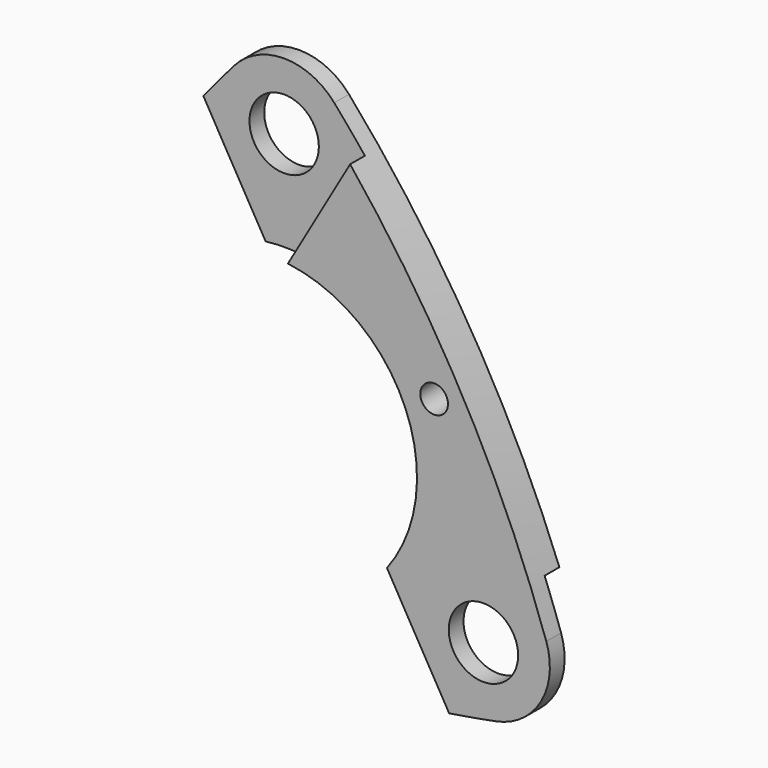
from build123d import *

# Parameters (mm, degrees)
F0_R     = 5.969
F1_DEPTH = 6.35
F3_DEPTH = 3.175
F4_R     = 5.969
F5_DEPTH = 3.175
F6_R     = 2.38125
F7_DEPTH = 25.4


with BuildPart() as f1:
    # F0 (on Front) → F1 (new body)
    with BuildSketch(Plane.XZ):
        with BuildLine():
            ThreePointArc((-3.193241, 25.198476), (21.997045, 12.7), (20.2259, -15.364666))
            Line((20.2259, -15.364666), (30.925328, -33.896619))
            ThreePointArc((30.925328, -33.896619), (34.982408, -33.229802), (39.025166, -32.481036))
            ThreePointArc((39.025166, -32.481036), (46.72867, -26.97881), (47.641985, -17.556267))
            ThreePointArc((47.641985, -17.556267), (31.40528, 18.131847), (8.616819, 50.037303))
            ThreePointArc((8.616819, 50.037303), (0, 53.957621), (-8.616819, 50.037303))
            ThreePointArc((-8.616819, 50.037303), (-11.286649, 46.910555), (-13.892669, 43.73043))
            Line((-13.892669, 43.73043), (-3.193241, 25.198476))
        make_face()
        with Locations((36.83, -21.26381)):
            Circle(F0_R, mode=Mode.SUBTRACT)
        with Locations((0, 42.527621)):
            Circle(F0_R, mode=Mode.SUBTRACT)
    extrude(amount=F1_DEPTH)

    # F2 (on face) → F3 (cut)
    with BuildSketch(Plane.XZ.offset(6.35)):
        Polygon((-39.208766, 26.267834), (-6.944216, 7.639887), (20.571818, 55.299056), (-11.692732, 73.927002), align=None)
    extrude(amount=-F3_DEPTH, mode=Mode.SUBTRACT)

    # F4 (on face) → F5 (cut)
    with BuildSketch(Plane.XZ):
        with Locations((36.83, -21.26381)):
            Circle(F4_R)
        with BuildLine():
            Line((65.582015, -59.232034), (65.582015, -9.83381))
            Line((65.582015, -9.83381), (44.817998, -9.83381))
            ThreePointArc((44.817998, -9.83381), (46.269057, -13.680753), (47.641985, -17.556267))
            ThreePointArc((47.641985, -17.556267), (46.72867, -26.97881), (39.025166, -32.481036))
            ThreePointArc((39.025166, -32.481036), (34.982408, -33.229802), (30.925328, -33.896619))
            Line((30.925328, -33.896619), (20.2259, -15.364666))
            ThreePointArc((20.2259, -15.364666), (21.997045, -12.7), (23.419141, -9.83381))
            Line((23.419141, -9.83381), (1.765535, -9.83381))
            Line((1.765535, -9.83381), (1.765535, -59.232034))
            Line((1.765535, -59.232034), (65.582015, -59.232034))
        make_face()
        with BuildLine():
            ThreePointArc((47.641985, -17.556267), (46.269057, -13.680753), (44.817998, -9.83381))
            Line((44.817998, -9.83381), (23.419141, -9.83381))
            ThreePointArc((23.419141, -9.83381), (21.997045, -12.7), (20.2259, -15.364666))
            Line((20.2259, -15.364666), (30.925328, -33.896619))
            ThreePointArc((30.925328, -33.896619), (34.982408, -33.229802), (39.025166, -32.481036))
            ThreePointArc((39.025166, -32.481036), (46.72867, -26.97881), (47.641985, -17.556267))
        make_face()
        with Locations((36.83, -21.26381)):
            Circle(F4_R, mode=Mode.SUBTRACT)
    extrude(amount=F5_DEPTH, mode=Mode.SUBTRACT)

    # F6 (on face) → F7 (cut)
    with BuildSketch(Plane.XZ.offset(6.35)):
        with Locations((28.349303, 12.88107)):
            Circle(F6_R)
    extrude(amount=-F7_DEPTH, mode=Mode.SUBTRACT)


solid = f1.part
